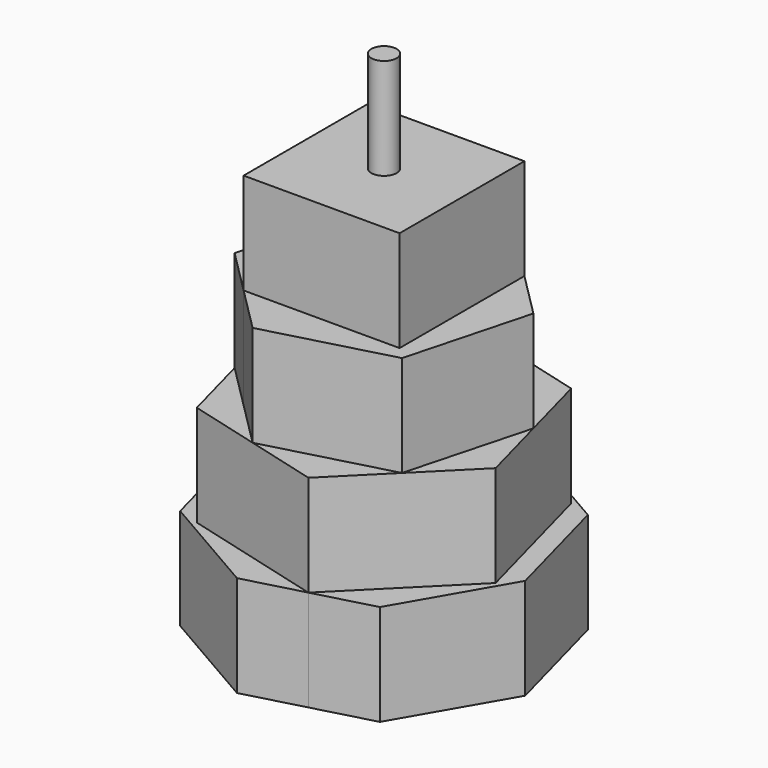
from build123d import *

# Parameters (mm, degrees)
F0_W     = 39.1890458631
F0_H     = 39.1890458631
F0_R     = 3.175
F1_DEPTH = 127
F2_DEPTH = 101.6
F3_DEPTH = 76.2
F4_DEPTH = 50.8
F5_DEPTH = 25.4


with BuildPart() as f1:
    # F0 (on Top) → F1 (new body)
    with BuildSketch(Plane.XY):
        Polygon((-22.6258061783, 22.6258061783), (8.2816198424, 30.9074260207), (-9.5627908906, 35.688821466), align=None)
        Polygon((-9.5627908906, 35.688821466), (8.2816198424, 30.9074260207), (26.1260305754, 26.1260305754), (30.9074260207, 8.2816198424), (35.688821466, -9.5627908906), (22.6258061783, -22.6258061783), (9.5627908906, -35.688821466), (24.345584767, -31.727783785), (39.6498591471, -5.2200029857), (31.727783785, 24.345584767), (5.2200029857, 39.6498591471), align=None)
        Polygon((-35.688821466, 9.5627908906), (-22.6258061783, 22.6258061783), (-9.5627908906, 35.688821466), (-24.345584767, 31.727783785), (-39.6498591471, 5.2200029857), (-31.727783785, -24.345584767), (-5.2200029857, -39.6498591471), (9.5627908906, -35.688821466), (-8.2816198424, -30.9074260207), (-26.1260305754, -26.1260305754), (-30.9074260207, -8.2816198424), align=None)
        Polygon((9.5627908906, -35.688821466), (22.6258061783, -22.6258061783), (-8.2816198424, -30.9074260207), align=None)
        Polygon((-30.9074260207, -8.2816198424), (-22.6258061783, 22.6258061783), (-35.688821466, 9.5627908906), align=None)
        Polygon((-8.2816198424, -30.9074260207), (-19.5945229316, -19.5945229316), (-30.9074260207, -8.2816198424), (-26.1260305754, -26.1260305754), align=None)
        Polygon((30.9074260207, 8.2816198424), (19.5945229316, 19.5945229316), (19.5945229316, -19.5945229316), (-19.5945229316, -19.5945229316), (-8.2816198424, -30.9074260207), (22.6258061783, -22.6258061783), align=None)
        Polygon((35.688821466, -9.5627908906), (30.9074260207, 8.2816198424), (22.6258061783, -22.6258061783), align=None)
        Polygon((8.2816198424, 30.9074260207), (19.5945229316, 19.5945229316), (30.9074260207, 8.2816198424), (26.1260305754, 26.1260305754), align=None)
        Polygon((-19.5945229316, 19.5945229316), (19.5945229316, 19.5945229316), (8.2816198424, 30.9074260207), (-22.6258061783, 22.6258061783), (-30.9074260207, -8.2816198424), (-19.5945229316, -19.5945229316), align=None)
        Rectangle(F0_W, F0_H)
        Circle(F0_R, mode=Mode.SUBTRACT)
        Circle(F0_R)
    extrude(amount=-F1_DEPTH)

    # F0 (on Top) → F2 (cut)
    with BuildSketch(Plane.XY):
        Polygon((-35.688821466, 9.5627908906), (-22.6258061783, 22.6258061783), (-9.5627908906, 35.688821466), (-24.345584767, 31.727783785), (-39.6498591471, 5.2200029857), (-31.727783785, -24.345584767), (-5.2200029857, -39.6498591471), (9.5627908906, -35.688821466), (-8.2816198424, -30.9074260207), (-26.1260305754, -26.1260305754), (-30.9074260207, -8.2816198424), align=None)
        Polygon((-9.5627908906, 35.688821466), (8.2816198424, 30.9074260207), (26.1260305754, 26.1260305754), (30.9074260207, 8.2816198424), (35.688821466, -9.5627908906), (22.6258061783, -22.6258061783), (9.5627908906, -35.688821466), (24.345584767, -31.727783785), (39.6498591471, -5.2200029857), (31.727783785, 24.345584767), (5.2200029857, 39.6498591471), align=None)
    extrude(amount=-F2_DEPTH, mode=Mode.SUBTRACT)

    # F0 (on Top) → F3 (cut)
    with BuildSketch(Plane.XY):
        Polygon((-8.2816198424, -30.9074260207), (-19.5945229316, -19.5945229316), (-30.9074260207, -8.2816198424), (-26.1260305754, -26.1260305754), align=None)
        Polygon((9.5627908906, -35.688821466), (22.6258061783, -22.6258061783), (-8.2816198424, -30.9074260207), align=None)
        Polygon((35.688821466, -9.5627908906), (30.9074260207, 8.2816198424), (22.6258061783, -22.6258061783), align=None)
        Polygon((8.2816198424, 30.9074260207), (19.5945229316, 19.5945229316), (30.9074260207, 8.2816198424), (26.1260305754, 26.1260305754), align=None)
        Polygon((-22.6258061783, 22.6258061783), (8.2816198424, 30.9074260207), (-9.5627908906, 35.688821466), align=None)
        Polygon((-30.9074260207, -8.2816198424), (-22.6258061783, 22.6258061783), (-35.688821466, 9.5627908906), align=None)
    extrude(amount=-F3_DEPTH, mode=Mode.SUBTRACT)

    # F0 (on Top) → F4 (cut)
    with BuildSketch(Plane.XY):
        Polygon((-19.5945229316, 19.5945229316), (19.5945229316, 19.5945229316), (8.2816198424, 30.9074260207), (-22.6258061783, 22.6258061783), (-30.9074260207, -8.2816198424), (-19.5945229316, -19.5945229316), align=None)
        Polygon((30.9074260207, 8.2816198424), (19.5945229316, 19.5945229316), (19.5945229316, -19.5945229316), (-19.5945229316, -19.5945229316), (-8.2816198424, -30.9074260207), (22.6258061783, -22.6258061783), align=None)
    extrude(amount=-F4_DEPTH, mode=Mode.SUBTRACT)

    # F0 (on Top) → F5 (cut)
    with BuildSketch(Plane.XY):
        Rectangle(F0_W, F0_H)
        Circle(F0_R, mode=Mode.SUBTRACT)
    extrude(amount=-F5_DEPTH, mode=Mode.SUBTRACT)


solid = f1.part
